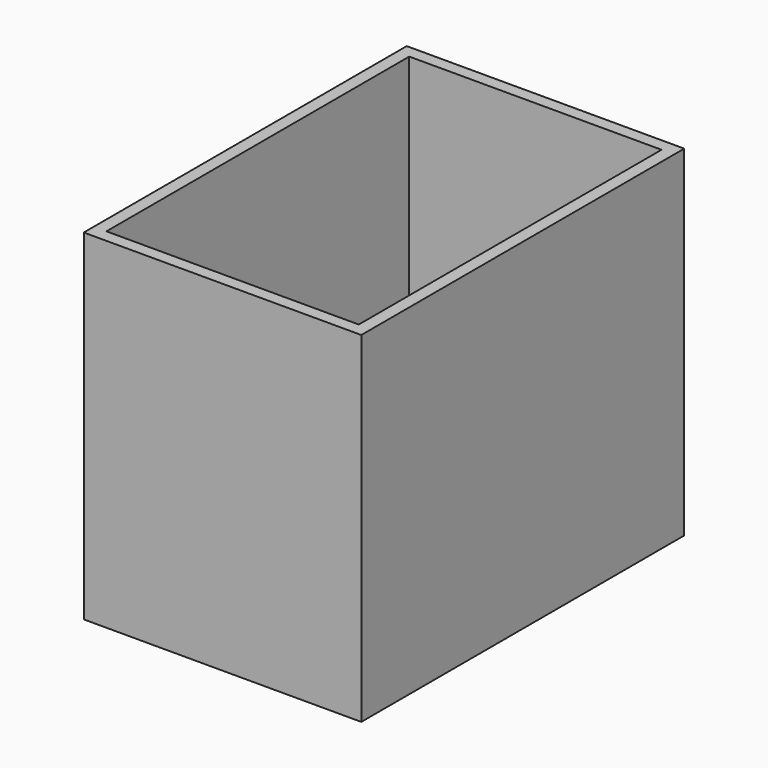
from build123d import *

# Parameters (mm, degrees)
BOX002_W     = 200
BOX002_H     = 300
BOX002_DEPTH = 290
BOX006_W     = 220
BOX006_H     = 320
BOX006_DEPTH = 270


with BuildPart() as obj1:
    # Box002 → Box002 (new body)
    with BuildSketch(Plane(origin=(25, 25, 20), x_dir=(1, 0, 0), z_dir=(0, 0, 1))):
        with Locations((100, 150)):
            Rectangle(BOX002_W, BOX002_H)
    extrude(amount=BOX002_DEPTH)


with BuildPart() as obj2:
    # Box006 → Box006 (new body)
    with BuildSketch(Plane(origin=(15, 15, 10), x_dir=(1, 0, 0), z_dir=(0, 0, 1))):
        with Locations((110, 160)):
            Rectangle(BOX006_W, BOX006_H)
    extrude(amount=BOX006_DEPTH)

    # Cut003: cut obj1
    add(obj1.part, mode=Mode.SUBTRACT)


solid = obj2.part
